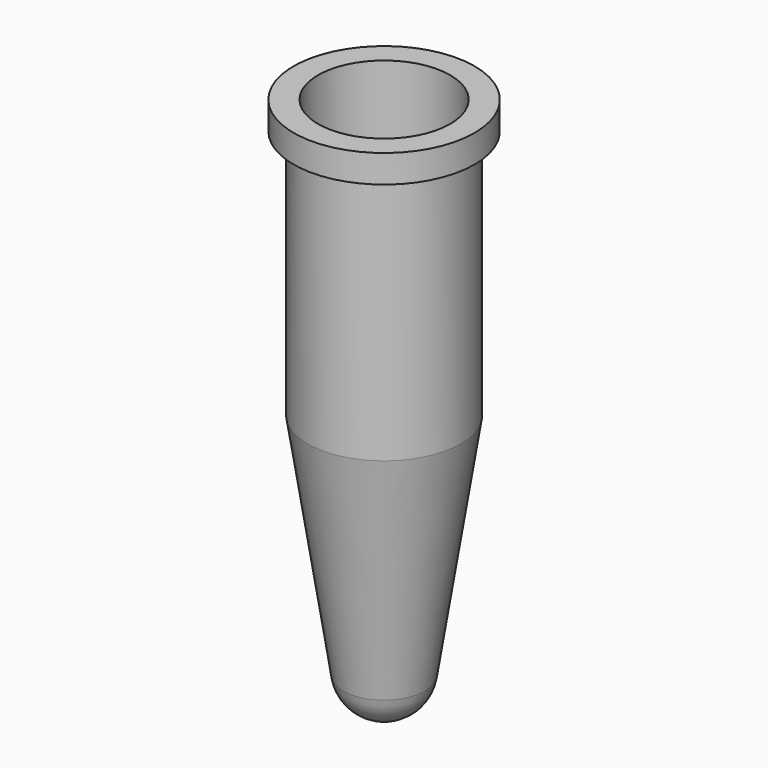
from build123d import *


with BuildPart() as f1:
    # F0 (on Front) → F1 (revolve)
    with BuildSketch(Plane.XZ):
        with BuildLine():
            Line((0, -38.25), (0, -39))
            ThreePointArc((0, -39), (1.953179, -38.27708), (2.965029, -36.456729))
            Line((2.965029, -36.456729), (5.5, -20))
            Line((5.5, -20), (5.5, -2))
            Line((5.5, -2), (6.5, -2))
            Line((6.5, -2), (6.5, 0))
            Line((6.5, 0), (4.75, 0))
            Line((4.75, 0), (4.75, -19.942574))
            Line((4.75, -19.942574), (2.223772, -36.342547))
            ThreePointArc((2.223772, -36.342547), (1.464884, -37.70781), (0, -38.25))
        make_face()
    revolve(axis=Axis((0, 0, -19.5), (0, 0, -1)))


solid = f1.part
